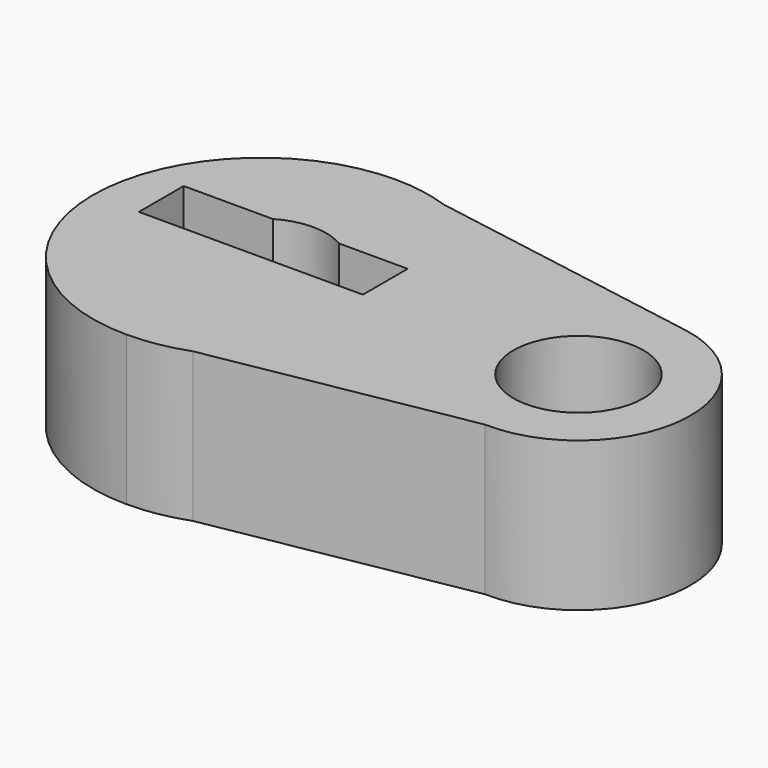
from build123d import *

# Parameters (mm, degrees)
F0_R     = 11.058769352
F1_DEPTH = 25.4


with BuildPart() as f1:
    # F0 (on Top) → F1 (new body)
    with BuildSketch(Plane.XY):
        with BuildLine():
            ThreePointArc((9.5121844836, 26.9452959039), (4.8253908933, 28.1646272428), (0, 28.575))
            Line((0, 28.575), (9.5121844836, 26.9452959039))
        make_face()
        with BuildLine():
            Line((9.9010042024, -26.8048641254), (0, -28.575))
            ThreePointArc((0, -28.575), (5.028997545, -28.1289852055), (9.9010042024, -26.8048641254))
        make_face()
        with BuildLine():
            Line((57.1919272622, 18.7764181619), (9.5121844836, 26.9452959039))
            ThreePointArc((9.5121844836, 26.9452959039), (23.3274655355, 16.5033322905), (28.575, 0))
            ThreePointArc((28.575, 0), (23.4462344534, -16.3341579201), (9.9010042024, -26.8048641254))
            Line((9.9010042024, -26.8048641254), (53.3365887919, -19.0392996491))
            ThreePointArc((53.3365887919, -19.0392996491), (35.0232371624, 1.9321452713), (57.1919272622, 18.7764181619))
        make_face()
        with BuildLine():
            ThreePointArc((73.025, 0), (68.5383952831, 12.2804730295), (57.1919272622, 18.7764181619))
            ThreePointArc((57.1919272622, 18.7764181619), (35.0232371624, 1.9321452713), (53.3365887919, -19.0392996491))
            ThreePointArc((53.3365887919, -19.0392996491), (67.2177483266, -13.6942366256), (73.025, 0))
        make_face()
        with Locations((53.975, 0)):
            Circle(F0_R, mode=Mode.SUBTRACT)
        with BuildLine():
            Line((9.5121844836, 26.9452959039), (0, 28.575))
            ThreePointArc((0, 28.575), (-28.575, 0), (0, -28.575))
            Line((0, -28.575), (9.9010042024, -26.8048641254))
            ThreePointArc((9.9010042024, -26.8048641254), (23.4462344534, -16.3341579201), (28.575, 0))
            ThreePointArc((28.575, 0), (23.3274655355, 16.5033322905), (9.5121844836, 26.9452959039))
        make_face()
        with BuildLine():
            Line((17.3186543345, 0), (11.058769352, 0))
            ThreePointArc((11.058769352, 0), (0, -11.058769352), (-11.058769352, 0))
            Line((-11.058769352, 0), (-20.7813456655, 0))
            Line((-20.7813456655, 0), (-20.7813456655, 9.525))
            Line((-20.7813456655, 9.525), (-5.6187858636, 9.525))
            ThreePointArc((-5.6187858636, 9.525), (0, 11.058769352), (5.6187858636, 9.525))
            Line((5.6187858636, 9.525), (17.3186543345, 9.525))
            Line((17.3186543345, 9.525), (17.3186543345, 0))
        make_face(mode=Mode.SUBTRACT)
        with BuildLine():
            ThreePointArc((-11.058769352, 0), (0, -11.058769352), (11.058769352, 0))
            Line((11.058769352, 0), (-11.058769352, 0))
        make_face()
    extrude(amount=F1_DEPTH)


solid = f1.part
